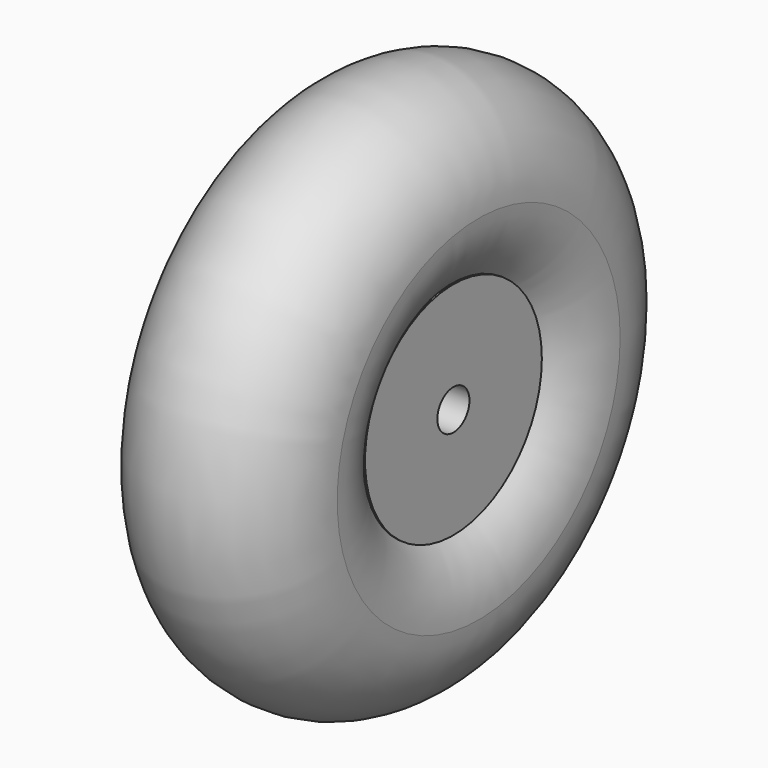
from build123d import *

# Parameters (mm, degrees)
F0_R     = 17.5
F1_DEPTH = 11
F3_R     = 15
F5_R     = 3.175
F6_DEPTH = 26.001


with BuildPart() as f1:
    # F0 (on Right) → F1 (new body, symmetric)
    with BuildSketch(Plane.YZ):
        Circle(F0_R)
    extrude(amount=F1_DEPTH, both=True)

    # F4: sweep along a path in F2
    with BuildLine(Plane.YZ) as f4_path:
        CenterArc((0, 0), 28, 0, 360)
    # F3 (on Front) → F4 (sweep)
    with BuildSketch(Plane.XZ):
        with Locations((0, -28)):
            Circle(F3_R)
    sweep(path=f4_path.line)

    # F5 (on face) → F6 (cut, through all)
    with BuildSketch(Plane.YZ.offset(11)):
        Circle(F5_R)
    extrude(amount=-F6_DEPTH, mode=Mode.SUBTRACT)


solid = f1.part
